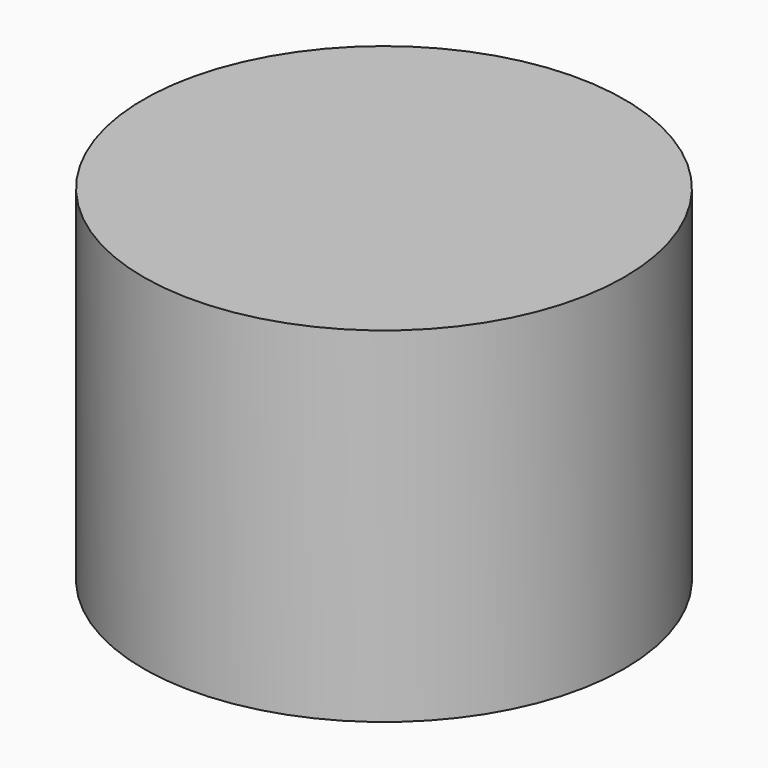
from build123d import *

# Parameters (mm, degrees)
CYLINDER_R     = 10.4648
CYLINDER_DEPTH = 15


with BuildPart() as part:
    # Cylinder → Cylinder (new body)
    with BuildSketch(Plane.XY.offset(-2.5)):
        Circle(CYLINDER_R)
    extrude(amount=CYLINDER_DEPTH)


solid = part.part
